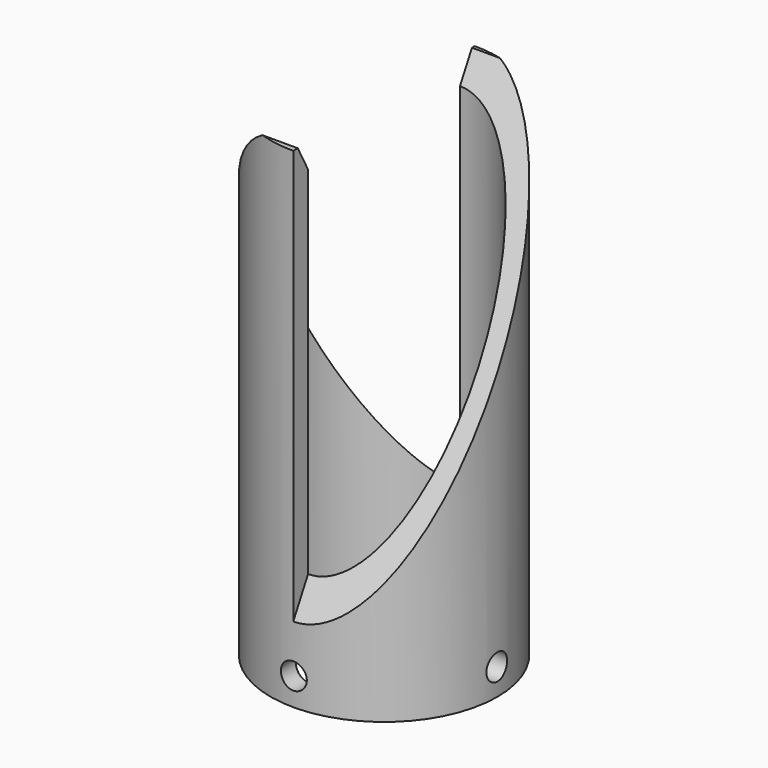
from build123d import *

# Parameters (mm, degrees)
F0_R      = 16.9164
F0_R_2    = 14.1605
F1_DEPTH  = 73.0504
F3_DEPTH  = 58.42
F5_DEPTH  = 25.4
F6_R      = 1.9304
F7_DEPTH  = 25.4
F8_R      = 1.9304
F9_DEPTH  = 35.814
F10_R     = 1.9304
F11_DEPTH = 25.4
F12_R     = 1.9304
F13_DEPTH = 44.196


with BuildPart() as f1:
    # F0 (on Top) → F1 (new body)
    with BuildSketch(Plane.XY):
        Circle(F0_R)
        Circle(F0_R_2, mode=Mode.SUBTRACT)
    extrude(amount=F1_DEPTH)

    # F2 (on Right) → F3 (cut)
    with BuildSketch(Plane.YZ):
        Polygon((-18.284496, 78.388058), (-18.916648, 7.546794), (19.261749, 78.388058), align=None)
    extrude(amount=F3_DEPTH, mode=Mode.SUBTRACT)

    # F4 (on Right) → F5 (cut)
    with BuildSketch(Plane.YZ):
        Polygon((-19.360213, 79.200871), (18.200016, 8.959677), (23.540258, 79.200871), align=None)
    extrude(amount=-F5_DEPTH, mode=Mode.SUBTRACT)

    # F6 (on Right) → F7 (cut)
    with BuildSketch(Plane.YZ):
        with Locations((0, 3.939143)):
            Circle(F6_R)
    extrude(amount=-F7_DEPTH, mode=Mode.SUBTRACT)

    # F8 (on Right) → F9 (cut)
    with BuildSketch(Plane.YZ):
        with Locations((0, 3.940872)):
            Circle(F8_R)
    extrude(amount=F9_DEPTH, mode=Mode.SUBTRACT)

    # F10 (on Front) → F11 (cut)
    with BuildSketch(Plane.XZ):
        with Locations((0, 4.125499)):
            Circle(F10_R)
    extrude(amount=-F11_DEPTH, mode=Mode.SUBTRACT)

    # F12 (on Front) → F13 (cut)
    with BuildSketch(Plane.XZ):
        with Locations((0, 4.12201)):
            Circle(F12_R)
    extrude(amount=F13_DEPTH, mode=Mode.SUBTRACT)


solid = f1.part
